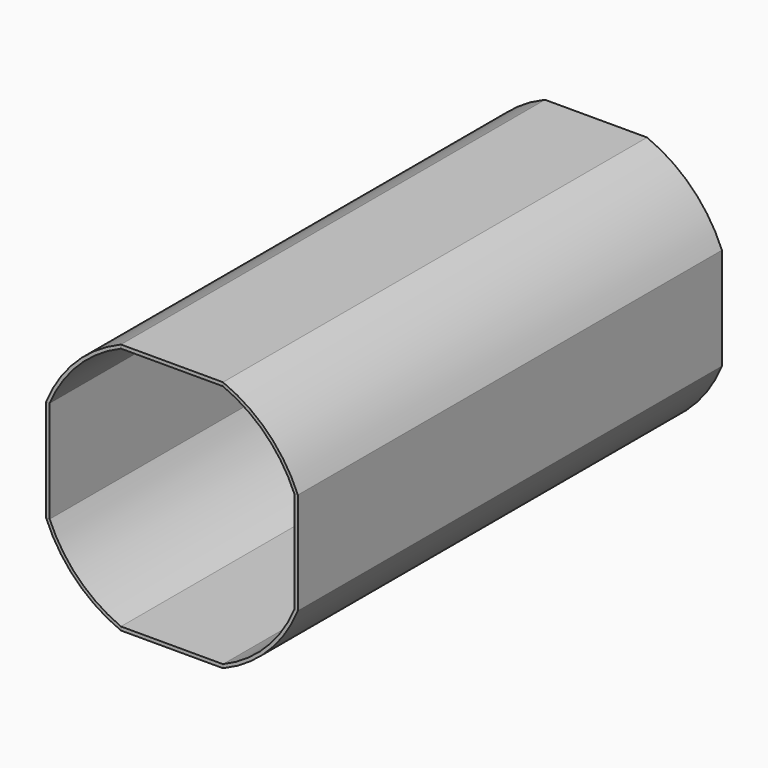
from build123d import *

# Parameters (mm, degrees)
F1_DEPTH = 203.2
F2_DEPTH = 203.2


with BuildPart() as f1:
    # F0 (on Front) → F1 (new body)
    with BuildSketch(Plane.XZ):
        with BuildLine():
            ThreePointArc((-46.886914, 19.551401), (-35.921024, 35.921024), (-19.551401, 46.886914))
            Line((-19.551401, 46.886914), (-19.551401, 48.26))
            ThreePointArc((-19.551401, 48.26), (-36.81905, 36.81905), (-48.26, 19.551401))
            Line((-48.26, 19.551401), (-46.886914, 19.551401))
        make_face()
        with BuildLine():
            ThreePointArc((19.551401, 46.886914), (35.921024, 35.921024), (46.886914, 19.551401))
            Line((46.886914, 19.551401), (48.26, 19.551401))
            ThreePointArc((48.26, 19.551401), (36.81905, 36.81905), (19.551401, 48.26))
            Line((19.551401, 48.26), (19.551401, 46.886914))
        make_face()
        with BuildLine():
            Line((48.26, -19.551401), (46.886914, -19.551401))
            ThreePointArc((46.886914, -19.551401), (35.921024, -35.921024), (19.551401, -46.886914))
            Line((19.551401, -46.886914), (19.551401, -48.26))
            ThreePointArc((19.551401, -48.26), (36.81905, -36.81905), (48.26, -19.551401))
        make_face()
        with BuildLine():
            Line((-19.551401, -48.26), (-19.551401, -46.886914))
            ThreePointArc((-19.551401, -46.886914), (-35.921024, -35.921024), (-46.886914, -19.551401))
            Line((-46.886914, -19.551401), (-48.26, -19.551401))
            ThreePointArc((-48.26, -19.551401), (-36.81905, -36.81905), (-19.551401, -48.26))
        make_face()
    extrude(amount=F1_DEPTH)


with BuildPart() as f2:
    # F0 (on Front) → F2 (new body)
    with BuildSketch(Plane.XZ):
        with BuildLine():
            Line((-48.26, -19.551401), (-46.886914, -19.551401))
            ThreePointArc((-46.886914, -19.551401), (-47.609203, -17.720153), (-48.26, -15.862295))
            Line((-48.26, -15.862295), (-48.26, -19.551401))
        make_face()
        with BuildLine():
            Line((-46.886914, -19.551401), (-46.886914, 19.551401))
            ThreePointArc((-46.886914, 19.551401), (-47.609203, 17.720153), (-48.26, 15.862295))
            Line((-48.26, 15.862295), (-48.26, 0))
            Line((-48.26, 0), (-48.26, -15.862295))
            ThreePointArc((-48.26, -15.862295), (-47.609203, -17.720153), (-46.886914, -19.551401))
        make_face()
        with BuildLine():
            ThreePointArc((-48.26, 15.862295), (-47.609203, 17.720153), (-46.886914, 19.551401))
            Line((-46.886914, 19.551401), (-48.26, 19.551401))
            Line((-48.26, 19.551401), (-48.26, 15.862295))
        make_face()
        with BuildLine():
            Line((-19.551401, 48.26), (-19.551401, 46.886914))
            ThreePointArc((-19.551401, 46.886914), (-17.720153, 47.609203), (-15.862295, 48.26))
            Line((-15.862295, 48.26), (-19.551401, 48.26))
        make_face()
        with BuildLine():
            Line((-19.551401, 46.886914), (19.551401, 46.886914))
            ThreePointArc((19.551401, 46.886914), (17.720153, 47.609203), (15.862295, 48.26))
            Line((15.862295, 48.26), (0, 48.26))
            Line((0, 48.26), (-15.862295, 48.26))
            ThreePointArc((-15.862295, 48.26), (-17.720153, 47.609203), (-19.551401, 46.886914))
        make_face()
        with BuildLine():
            ThreePointArc((15.862295, 48.26), (17.720153, 47.609203), (19.551401, 46.886914))
            Line((19.551401, 46.886914), (19.551401, 48.26))
            Line((19.551401, 48.26), (15.862295, 48.26))
        make_face()
        with BuildLine():
            Line((48.26, 19.551401), (46.886914, 19.551401))
            ThreePointArc((46.886914, 19.551401), (47.609203, 17.720153), (48.26, 15.862295))
            Line((48.26, 15.862295), (48.26, 19.551401))
        make_face()
        with BuildLine():
            ThreePointArc((48.26, 15.862295), (47.609203, 17.720153), (46.886914, 19.551401))
            Line((46.886914, 19.551401), (46.886914, -19.551401))
            ThreePointArc((46.886914, -19.551401), (47.609203, -17.720153), (48.26, -15.862295))
            Line((48.26, -15.862295), (48.26, 0))
            Line((48.26, 0), (48.26, 15.862295))
        make_face()
        with BuildLine():
            ThreePointArc((48.26, -15.862295), (47.609203, -17.720153), (46.886914, -19.551401))
            Line((46.886914, -19.551401), (48.26, -19.551401))
            Line((48.26, -19.551401), (48.26, -15.862295))
        make_face()
        with BuildLine():
            ThreePointArc((15.862295, -48.26), (17.720153, -47.609203), (19.551401, -46.886914))
            Line((19.551401, -46.886914), (-19.551401, -46.886914))
            ThreePointArc((-19.551401, -46.886914), (-17.720153, -47.609203), (-15.862295, -48.26))
            Line((-15.862295, -48.26), (0, -48.26))
            Line((0, -48.26), (15.862295, -48.26))
        make_face()
        with BuildLine():
            Line((19.551401, -48.26), (19.551401, -46.886914))
            ThreePointArc((19.551401, -46.886914), (17.720153, -47.609203), (15.862295, -48.26))
            Line((15.862295, -48.26), (19.551401, -48.26))
        make_face()
        with BuildLine():
            ThreePointArc((-15.862295, -48.26), (-17.720153, -47.609203), (-19.551401, -46.886914))
            Line((-19.551401, -46.886914), (-19.551401, -48.26))
            Line((-19.551401, -48.26), (-15.862295, -48.26))
        make_face()
    extrude(amount=F2_DEPTH)


solid = Compound([f1.part, f2.part])
